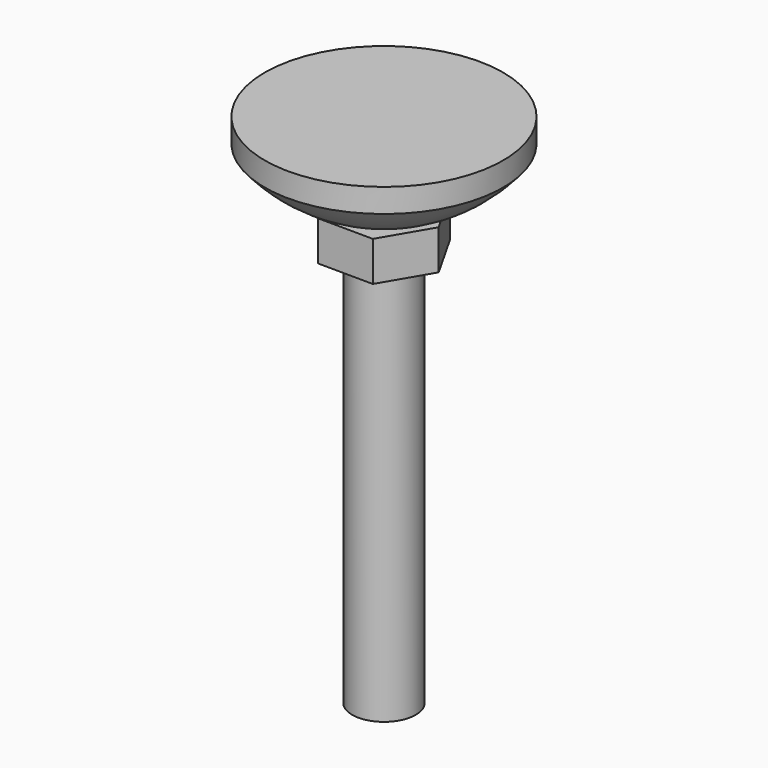
from build123d import *

# Parameters (mm, degrees)
F0_R     = 4
F1_DEPTH = 50
F3_DEPTH = 5
F4_R     = 1.5
F5_DEPTH = 5


with BuildPart() as f1:
    # F0 (on Top) → F1 (new body)
    with BuildSketch(Plane.XY):
        Circle(F0_R)
    extrude(amount=F1_DEPTH)

    # F2 (on face) → F3 (join)
    with BuildSketch(Plane.XY.offset(50)):
        Polygon((6.928004, -0.052545), (3.509508, 5.973555), (-3.418496, 6.0261), (-6.928004, 0.052545), (-3.509508, -5.973555), (3.418496, -6.0261), align=None)
    extrude(amount=F3_DEPTH)

    # F4 (on face) → F5 (join)
    with BuildSketch(Plane.XY.offset(55)):
        Circle(F4_R)
    extrude(amount=F5_DEPTH)

    # F6 (on Front) → F7 (revolve)
    with BuildSketch(Plane.XZ):
        with BuildLine():
            Line((-15, 65), (-15, 62))
            ThreePointArc((-15, 62), (-8.276473, 56.83613), (0, 55))
            Line((0, 55), (0, 65))
            Line((0, 65), (-15, 65))
        make_face()
    revolve(axis=Axis((0, 0, 60), (0, 0, -1)))


solid = f1.part
